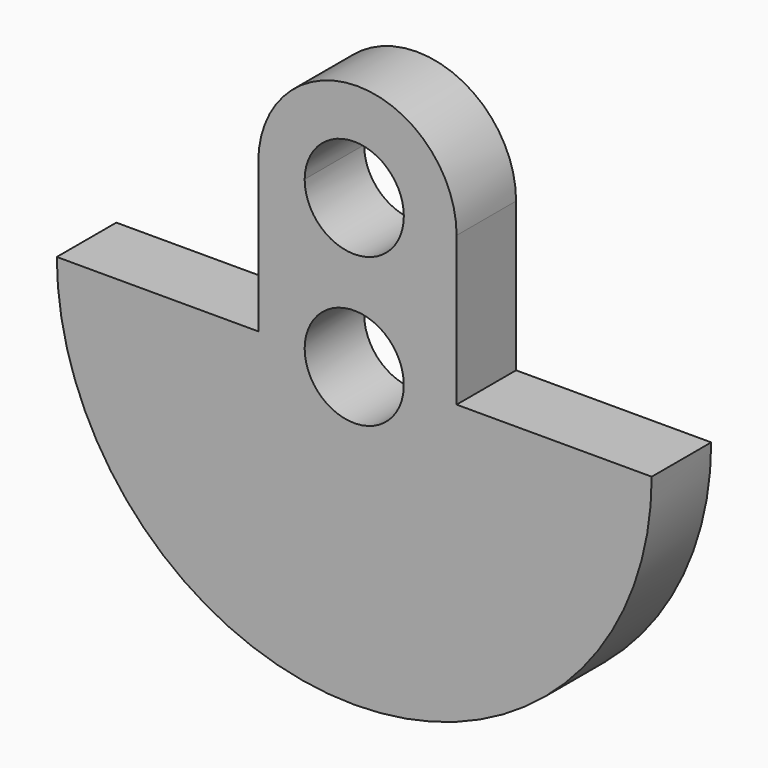
from build123d import *

# Parameters (mm, degrees)
F1_DEPTH = 15


with BuildPart() as f1:
    # F0 (on Front) → F1 (new body)
    with BuildSketch(Plane.XZ):
        with BuildLine():
            Line((-19.364525, 0), (-60, 0))
            ThreePointArc((-60, 0), (0, -60), (60, 0))
            Line((60, 0), (20.64457, 0))
            Line((20.64457, 0), (10, 0))
            ThreePointArc((10, 0), (0, -10), (-10, 0))
            Line((-10, 0), (-19.364525, 0))
        make_face()
        with BuildLine():
            Line((-19.364525, 30.053675), (-19.364525, 0))
            Line((-19.364525, 0), (-10, 0))
            ThreePointArc((-10, 0), (0, 10), (10, 0))
            Line((10, 0), (20.64457, 0))
            Line((20.64457, 0), (20.64457, 30.053675))
            Line((20.64457, 30.053675), (9.999856, 30.053675))
            ThreePointArc((9.999856, 30.053675), (9.999964, 30.026838), (10, 30))
            ThreePointArc((10, 30), (-0.026838, 20.000036), (-9.999856, 30.053675))
            Line((-9.999856, 30.053675), (-19.364525, 30.053675))
        make_face()
        with BuildLine():
            ThreePointArc((20.64457, 30.053675), (0.640023, 50.058223), (-19.364525, 30.053675))
            Line((-19.364525, 30.053675), (-9.999856, 30.053675))
            ThreePointArc((-9.999856, 30.053675), (0, 40), (9.999856, 30.053675))
            Line((9.999856, 30.053675), (20.64457, 30.053675))
        make_face()
    extrude(amount=F1_DEPTH)


solid = f1.part
